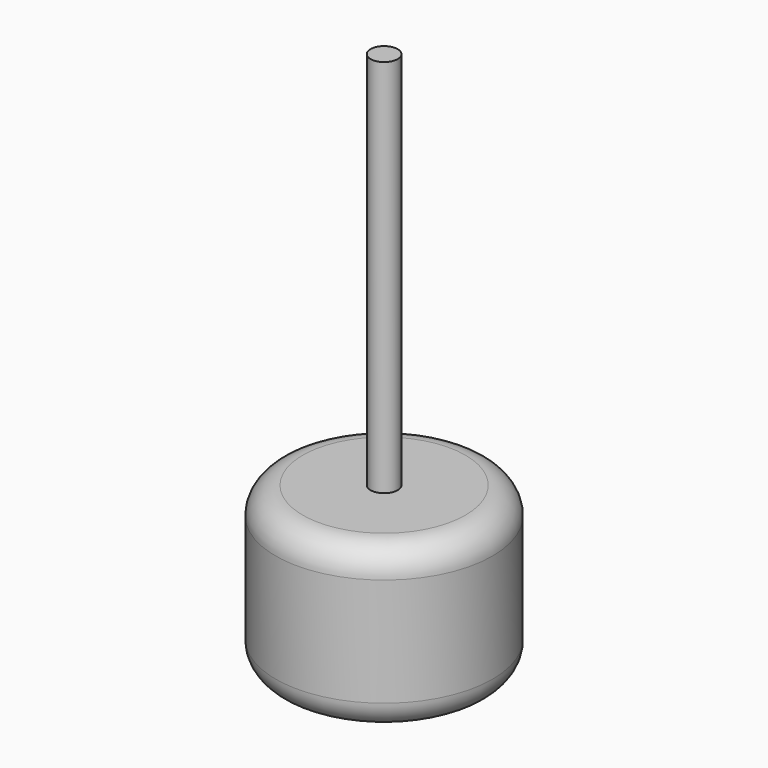
from build123d import *

# Parameters (mm, degrees)
F0_R     = 10.16
F1_DEPTH = 15.24
F2_R     = 2.54
F3_R     = 1.27
F4_DEPTH = 35.56


with BuildPart() as f1:
    # F0 (on Top) → F1 (new body)
    with BuildSketch(Plane.XY):
        Circle(F0_R)
    extrude(amount=F1_DEPTH)

    # F2
    f2_edges = [f1.edges().sort_by_distance(p)[0] for p in [
        (-10.16, 0, 15.24),
        (-10.16, 0, 0),
    ]]
    fillet(f2_edges, radius=F2_R)

    # F3 (on face) → F4 (join)
    with BuildSketch(Plane.XY.offset(15.24)):
        Circle(F3_R)
    extrude(amount=F4_DEPTH)


solid = f1.part
